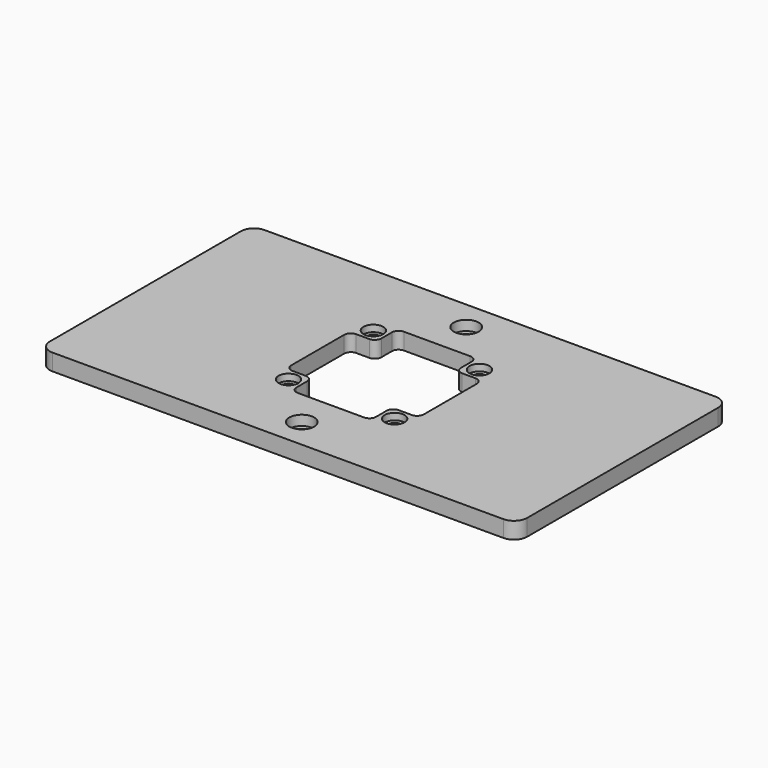
from build123d import *

# Parameters (mm, degrees)
SKETCH_W        = 144
SKETCH_H        = 80
PAD_DEPTH       = 5
FILLET_R        = 4
SKETCH001_R     = 2.25
POCKET_DEPTH    = 10
SKETCH002_R     = 3.75
POCKET001_DEPTH = 3
SKETCH003_W     = 40
SKETCH003_H     = 40
POCKET002_DEPTH = 5
SKETCH004_W     = 8
SKETCH004_H     = 8
PAD001_DEPTH    = 5
SKETCH005_R     = 1.75
POCKET003_DEPTH = 5
FILLET001_R     = 2
SKETCH006_R     = 3
POCKET004_DEPTH = 2


with BuildPart() as part:
    # Sketch → Pad (new body)
    with BuildSketch(Plane.XY):
        with Locations((72, 40)):
            Rectangle(SKETCH_W, SKETCH_H)
    extrude(amount=PAD_DEPTH)

    # Fillet
    fillet_edges = [part.edges().sort_by_distance(p)[0] for p in [
        (144, 0, 2.5),
        (144, 80, 2.5),
        (0, 0, 2.5),
        (0, 80, 2.5),
    ]]
    fillet(fillet_edges, radius=FILLET_R)

    # Sketch001 (on Face5 of Fillet) → Pocket (cut)
    with BuildSketch(Plane.XY.offset(5)):
        with Locations((72, 9)):
            Circle(SKETCH001_R)
        with Locations((72, 71)):
            Circle(SKETCH001_R)
    extrude(amount=-POCKET_DEPTH, mode=Mode.SUBTRACT)

    # Sketch002 (on Face5 of Pocket) → Pocket001 (cut)
    with BuildSketch(Plane.XY.offset(5)):
        with Locations((72, 9)):
            Circle(SKETCH002_R)
        with Locations((72, 71)):
            Circle(SKETCH002_R)
    extrude(amount=-POCKET001_DEPTH, mode=Mode.SUBTRACT)

    # Sketch003 (on Face5 of Pocket001) → Pocket002 (cut)
    with BuildSketch(Plane.XY.offset(5)):
        with Locations((72, 40)):
            Rectangle(SKETCH003_W, SKETCH003_H)
    extrude(amount=-POCKET002_DEPTH, mode=Mode.SUBTRACT)

    # Sketch004 (on Face5 of Pocket002) → Pad001 (join)
    with BuildSketch(Plane.XY.offset(5)):
        with Locations((56, 56)):
            Rectangle(SKETCH004_W, SKETCH004_H)
        with Locations((56, 24)):
            Rectangle(SKETCH004_W, SKETCH004_H)
        with Locations((88, 24)):
            Rectangle(SKETCH004_W, SKETCH004_H)
        with Locations((88, 56)):
            Rectangle(SKETCH004_W, SKETCH004_H)
    extrude(amount=-PAD001_DEPTH)

    # Sketch005 (on Face28 of Pad001) → Pocket003 (cut)
    with BuildSketch(Plane.XY.offset(5)):
        with Locations((56, 56)):
            Circle(SKETCH005_R)
        with Locations((88, 56)):
            Circle(SKETCH005_R)
        with Locations((56, 24)):
            Circle(SKETCH005_R)
        with Locations((88, 24)):
            Circle(SKETCH005_R)
    extrude(amount=-POCKET003_DEPTH, mode=Mode.SUBTRACT)

    # Fillet001
    fillet001_edges = [part.edges().sort_by_distance(p)[0] for p in [
        (60, 52, 2.5),
        (60, 60, 2.5),
        (52, 52, 2.5),
        (52, 28, 2.5),
        (60, 28, 2.5),
        (60, 20, 2.5),
        (84, 28, 2.5),
        (92, 28, 2.5),
        (84, 20, 2.5),
        (84, 60, 2.5),
        (84, 52, 2.5),
        (92, 52, 2.5),
    ]]
    fillet(fillet001_edges, radius=FILLET001_R)

    # Sketch006 (on Face40 of Fillet001) → Pocket004 (cut)
    with BuildSketch(Plane.XY.offset(5)):
        with Locations((56, 24)):
            Circle(SKETCH006_R)
        with Locations((56, 56)):
            Circle(SKETCH006_R)
        with Locations((88, 56)):
            Circle(SKETCH006_R)
        with Locations((88, 24)):
            Circle(SKETCH006_R)
    extrude(amount=-POCKET004_DEPTH, mode=Mode.SUBTRACT)


solid = part.part
